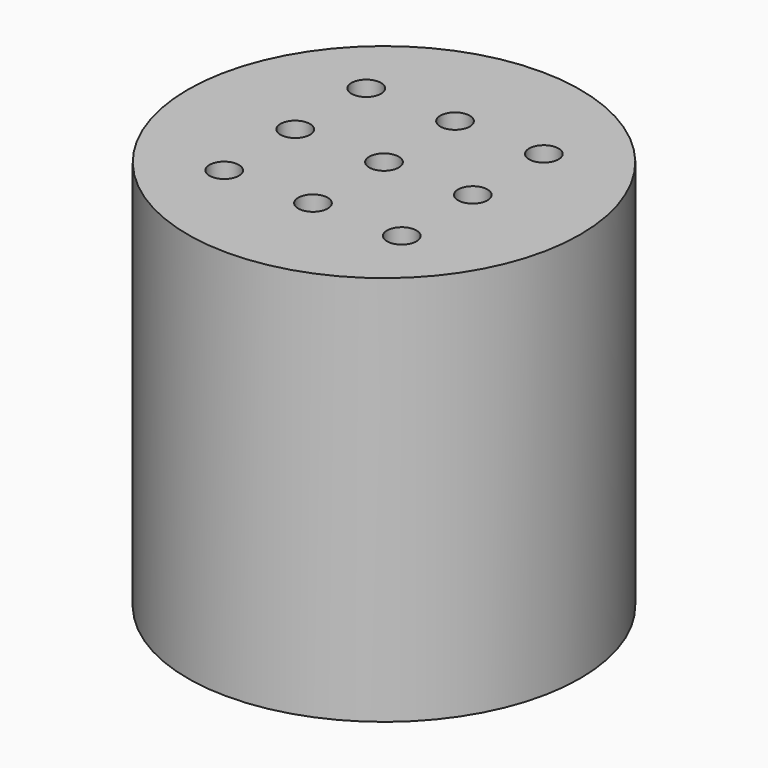
from build123d import *

# Parameters (mm, degrees)
F0_R     = 11.05
F1_DEPTH = 22
F2_D     = 1.66116


with BuildPart() as f1:
    # F0 (on Top) → F1 (new body)
    with BuildSketch(Plane.XY):
        Circle(F0_R)
    extrude(amount=-F1_DEPTH)

    # F2 (through all)
    with Locations(Plane.XY):
        with Locations((0, 5), (-5, 5), (-5, 0), (-5, -5), (0, -5), (5, -5), (5, 0), (5, 5), (0, 0)):
            Hole(F2_D / 2)


solid = f1.part
